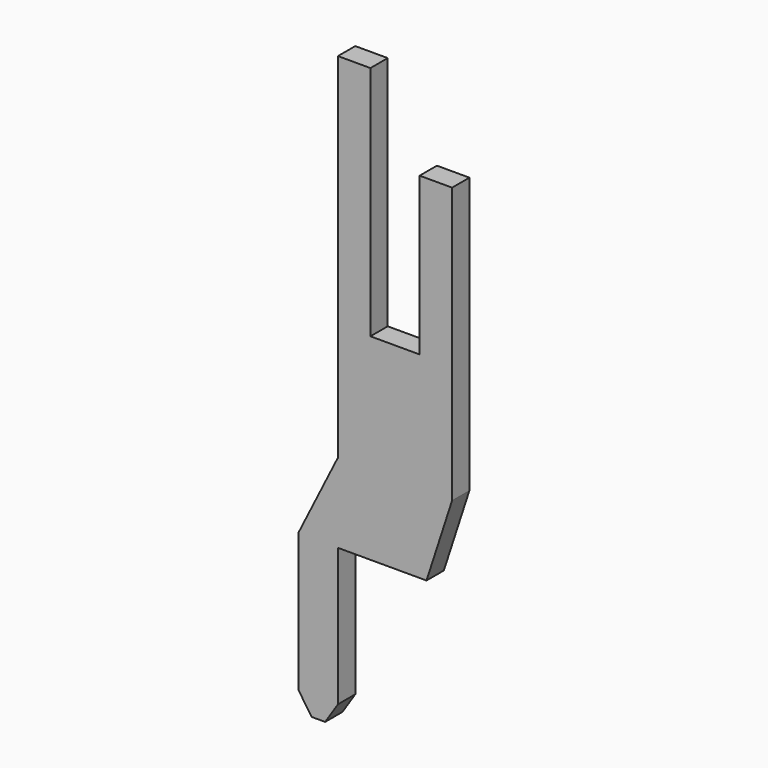
from build123d import *

# Parameters (mm, degrees)
BOX019_W         = 2.9
BOX019_H         = 0.55
BOX019_DEPTH     = 15
BOX020_W         = 1.25
BOX020_H         = 0.55
BOX020_DEPTH     = 6
BOX021_W         = 1.1
BOX021_H         = 0.6
BOX021_DEPTH     = 2
BOX022_W         = 1
BOX022_H         = 0.55
BOX022_DEPTH     = 6
BOX023_W         = 3
BOX023_H         = 0.55
BOX023_DEPTH     = 4
CHAMFER002_SIZE2 = 0.65
CHAMFER002_SIZE  = 2
CHAMFER003_ANGLE = 33
CHAMFER003_SIZE  = 0.5
CHAMFER004_ANGLE = 56
CHAMFER004_SIZE  = 0.33
CHAMFER005_ANGLE = 26.565
CHAMFER005_SIZE  = 1.98


with BuildPart() as part:
    # Box019 → Box019 (join)
    with BuildSketch(Plane(origin=(-4.95, -0.275, 0), x_dir=(1, 0, 0), z_dir=(0, 0, 1))):
        with Locations((1.45, 0.275)):
            Rectangle(BOX019_W, BOX019_H)
    extrude(amount=BOX019_DEPTH)

    # Box020 → Box020 (cut)
    with BuildSketch(Plane(origin=(-4.125, -0.275, 9), x_dir=(1, 0, 0), z_dir=(0, 0, 1))):
        with Locations((0.625, 0.275)):
            Rectangle(BOX020_W, BOX020_H)
    extrude(amount=BOX020_DEPTH, mode=Mode.SUBTRACT)

    # Box021 → Box021 (cut)
    with BuildSketch(Plane(origin=(-3, -0.3, 13), x_dir=(1, 0, 0), z_dir=(0, 0, 1))):
        with Locations((0.55, 0.3)):
            Rectangle(BOX021_W, BOX021_H)
    extrude(amount=BOX021_DEPTH, mode=Mode.SUBTRACT)

    # Box022 → Box022 (join)
    with BuildSketch(Plane(origin=(-5.95, -0.275, 0), x_dir=(1, 0, 0), z_dir=(0, 0, 1))):
        with Locations((0.5, 0.275)):
            Rectangle(BOX022_W, BOX022_H)
    extrude(amount=BOX022_DEPTH)

    # Box023 → Box023 (cut)
    with BuildSketch(Plane(origin=(-4.95, 0.275, 4), x_dir=(1, 0, 0), z_dir=(0, 0, -1))):
        with Locations((1.5, 0.275)):
            Rectangle(BOX023_W, BOX023_H)
    extrude(amount=BOX023_DEPTH, mode=Mode.SUBTRACT)

    # Chamfer002
    chamfer002_edges = [part.edges().sort_by_distance(p)[0] for p in [
        (-2.05, 0, 4),
    ]]
    chamfer002_side = part.faces().sort_by_distance((-2.05, 0, 8.5))[0]
    chamfer(chamfer002_edges, length=CHAMFER002_SIZE, length2=CHAMFER002_SIZE2, reference=chamfer002_side)

    # Chamfer003
    chamfer003_edges = [part.edges().sort_by_distance(p)[0] for p in [
        (-4.95, 0, 0),
    ]]
    chamfer003_side = part.faces().sort_by_distance((-4.95, 0, 2))[0]
    chamfer(chamfer003_edges, length=CHAMFER003_SIZE, angle=CHAMFER003_ANGLE, reference=chamfer003_side)

    # Chamfer004
    chamfer004_edges = [part.edges().sort_by_distance(p)[0] for p in [
        (-5.95, 0, 0),
    ]]
    chamfer004_side = part.faces().sort_by_distance((-5.612352, 0, 0))[0]
    chamfer(chamfer004_edges, length=CHAMFER004_SIZE, angle=CHAMFER004_ANGLE, reference=chamfer004_side)

    # Chamfer005
    chamfer005_edges = [part.edges().sort_by_distance(p)[0] for p in [
        (-5.95, 0, 6),
    ]]
    chamfer005_side = part.faces().sort_by_distance((-5.95, 0, 3.244623))[0]
    chamfer(chamfer005_edges, length=CHAMFER005_SIZE, angle=CHAMFER005_ANGLE, reference=chamfer005_side)


with BuildPart() as part_1:
    # Body019 placement: moved
    add(part.part.moved(Location((0, 0, -4))))


solid = part_1.part
